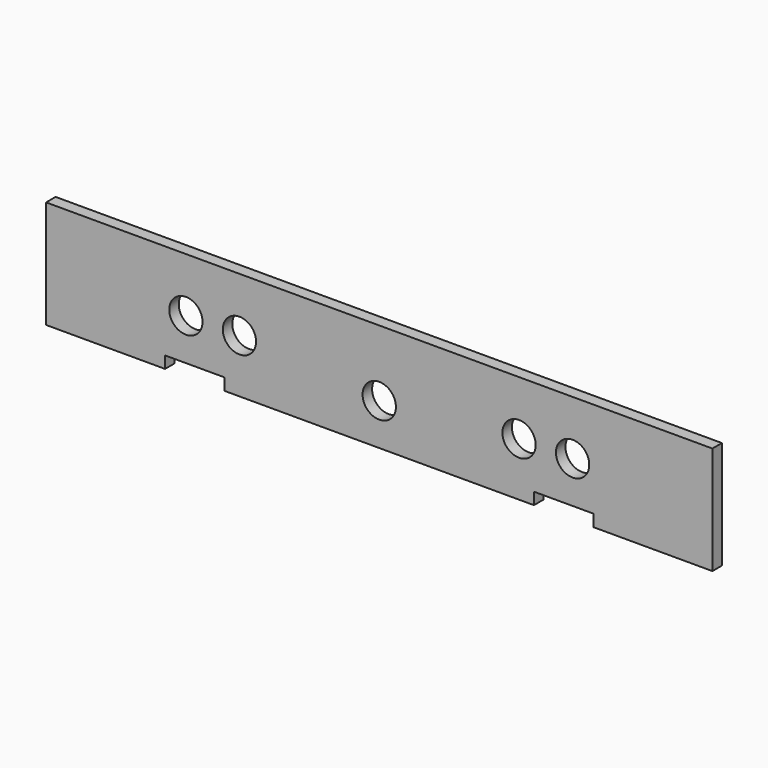
from build123d import *

# Parameters (mm, degrees)
SKETCH_W        = 560
SKETCH_H        = 90.7
PAD_DEPTH       = 10
SKETCH001_R     = 14
POCKET_DEPTH    = 10.001
SKETCH002_W     = 50
SKETCH002_H     = 10
POCKET001_DEPTH = 10.001


with BuildPart() as part:
    # Sketch → Pad (new body)
    with BuildSketch(Plane.XZ):
        with Locations((280, 45.35)):
            Rectangle(SKETCH_W, SKETCH_H)
    extrude(amount=PAD_DEPTH)

    # Sketch001 → Pocket (cut, through all)
    with BuildSketch(Plane.XZ.offset(10)):
        with Locations((117.5, 45)):
            Circle(SKETCH001_R)
        with Locations((162.5, 45)):
            Circle(SKETCH001_R)
        with Locations((397.5, 45)):
            Circle(SKETCH001_R)
        with Locations((442.5, 45)):
            Circle(SKETCH001_R)
        with Locations((280, 35)):
            Circle(SKETCH001_R)
    extrude(amount=-POCKET_DEPTH, mode=Mode.SUBTRACT)

    # Sketch002 → Pocket001 (cut, through all)
    with BuildSketch(Plane.XZ.offset(10)):
        with Locations((125, 5)):
            Rectangle(SKETCH002_W, SKETCH002_H)
        with Locations((435, 5)):
            Rectangle(SKETCH002_W, SKETCH002_H)
    extrude(amount=-POCKET001_DEPTH, mode=Mode.SUBTRACT)


solid = part.part
